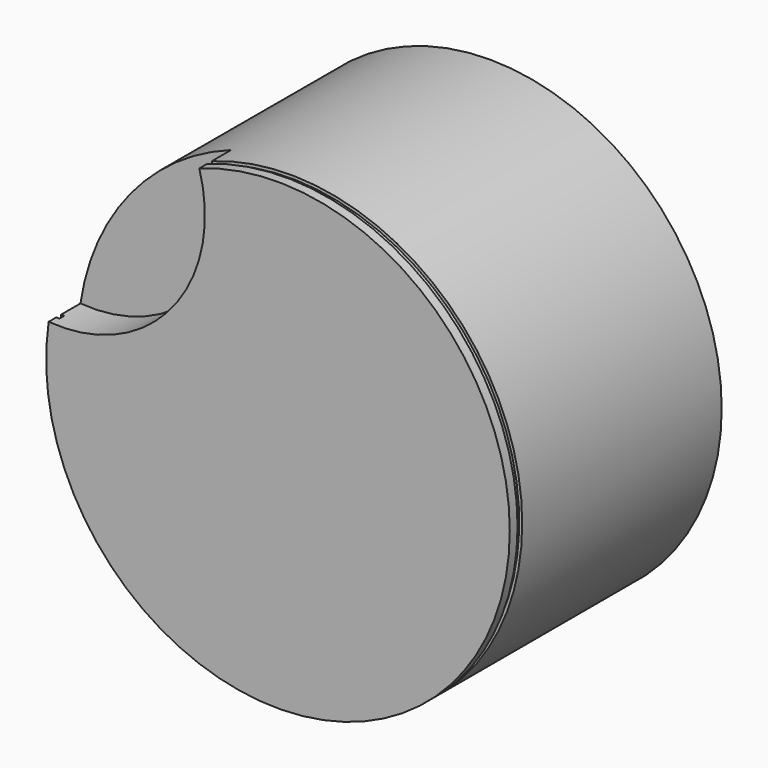
from build123d import *

# Parameters (mm, degrees)
F0_R     = 17.5
F1_DEPTH = 20
F2_R     = 10.927748
F3_DEPTH = 3
F5_DEPTH = 10
F6_W     = 0.44194
F6_H     = 0.254811


with BuildPart() as f1:
    # F0 (on Front) → F1 (new body)
    with BuildSketch(Plane.XZ):
        Circle(F0_R)
    extrude(amount=-F1_DEPTH)

    # F2 (on Front) → F3 (cut)
    with BuildSketch(Plane.XZ):
        with Locations((-16.442308, 13.46154)):
            Circle(F2_R)
    extrude(amount=-F3_DEPTH, mode=Mode.SUBTRACT)

    # F4 (on face) → F5 (cut)
    with BuildSketch(Plane(origin=(0, 20, 0), x_dir=(-1, 0, 0), z_dir=(0, 1, 0))):
        with BuildLine():
            ThreePointArc((-0.071881, 1.998708), (-1.388567, -1.439403), (2, 0))
            ThreePointArc((2, 0), (1.957133, 0.411864), (1.830368, 0.806073))
            Line((1.830368, 0.806073), (-0.071881, 1.998708))
        make_face()
    extrude(amount=-F5_DEPTH, mode=Mode.SUBTRACT)

    # F6 (on Right) → F7 (revolve, cut)
    with BuildSketch(Plane.YZ):
        with Locations((0.954671, 17.401108)):
            Rectangle(F6_W, F6_H)
    revolve(axis=Axis((0, 0, 0), (0, -1, 0)), mode=Mode.SUBTRACT)


solid = f1.part
